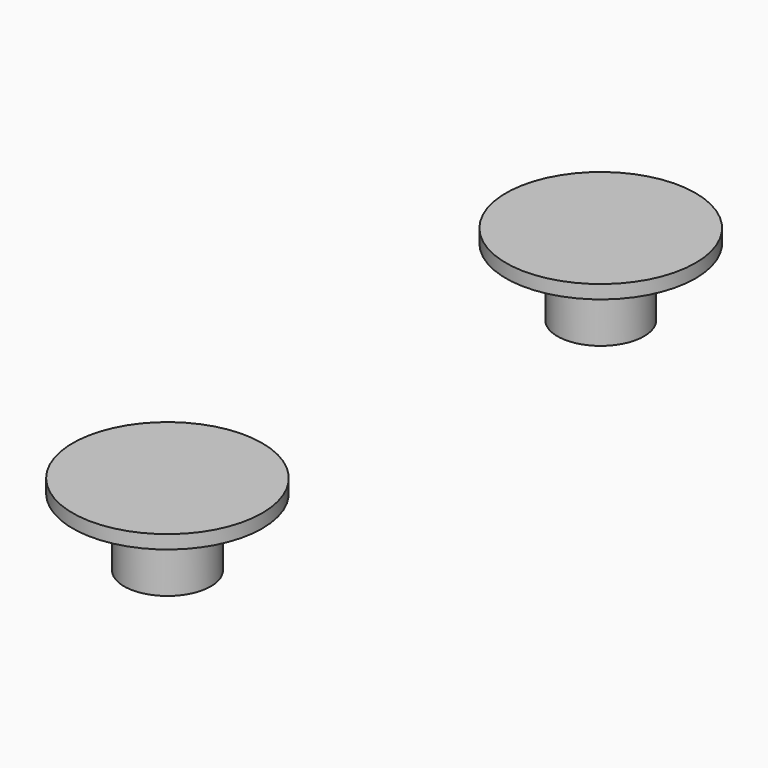
from build123d import *

# Parameters (mm, degrees)
CYLINDER_R        = 1.6
CYLINDER_DEPTH    = 3
CYLINDER002_R     = 3.5
CYLINDER002_DEPTH = 0.5
CYLINDER001_R     = 1.6
CYLINDER001_DEPTH = 3
CYLINDER003_R     = 3.5
CYLINDER003_DEPTH = 0.5


with BuildPart() as cylinder:
    # Cylinder → Cylinder (new body)
    with BuildSketch(Plane(origin=(0, 10, -3), x_dir=(1, 0, 0), z_dir=(0, 0, 1))):
        Circle(CYLINDER_R)
    extrude(amount=CYLINDER_DEPTH)


with BuildPart() as fusion002:
    # Cylinder002 → Cylinder002 (new body)
    with BuildSketch(Plane(origin=(0, 10, -0.5), x_dir=(1, 0, 0), z_dir=(0, 0, 1))):
        Circle(CYLINDER002_R)
    extrude(amount=CYLINDER002_DEPTH)

    # Fusion002: union Cylinder
    add(cylinder.part)


with BuildPart() as cylinder001:
    # Cylinder001 → Cylinder001 (new body)
    with BuildSketch(Plane(origin=(0, -10, -3), x_dir=(1, 0, 0), z_dir=(0, 0, 1))):
        Circle(CYLINDER001_R)
    extrude(amount=CYLINDER001_DEPTH)


with BuildPart() as screw_hole:
    # Cylinder003 → Cylinder003 (new body)
    with BuildSketch(Plane(origin=(0, -10, -0.5), x_dir=(1, 0, 0), z_dir=(0, 0, 1))):
        Circle(CYLINDER003_R)
    extrude(amount=CYLINDER003_DEPTH)

    # Fusion003: union Cylinder001
    add(cylinder001.part)

    # Fusion004: union Fusion002
    add(fusion002.part)


with BuildPart() as screw_hole_1:
    # Fusion004 placement: moved
    add(screw_hole.part.moved(Location((5, 0, 0))))


solid = screw_hole_1.part
